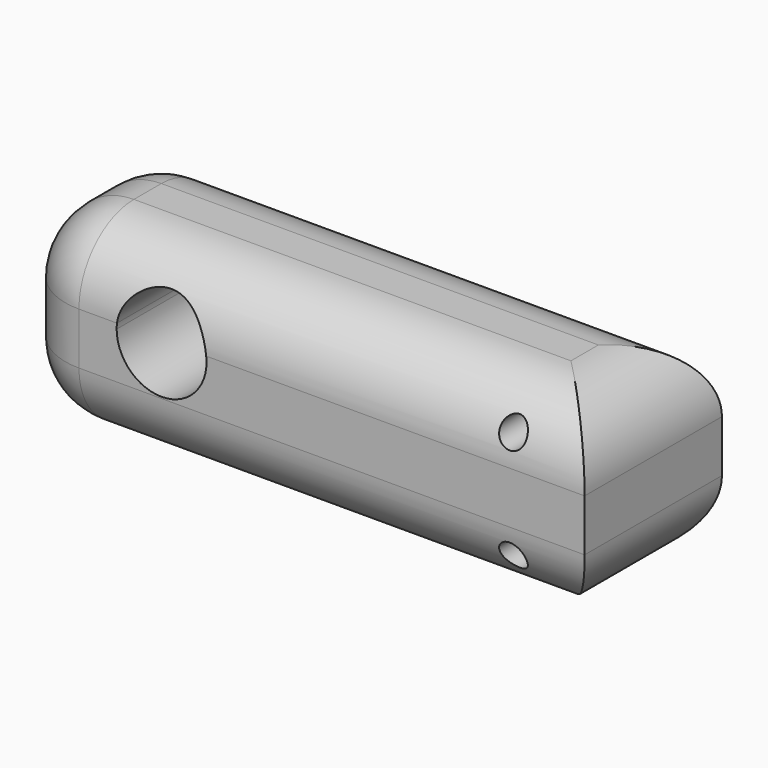
from build123d import *

# Parameters (mm, degrees)
F0_W     = 85
F0_H     = 28
F1_DEPTH = 25.4
F2_R     = 10.16
F4_DEPTH = 25.4
F5_R     = 2
F7_DEPTH = 35


with BuildPart() as f1:
    # F0 (on Front) → F1 (new body)
    with BuildSketch(Plane.XZ):
        with Locations((-23.7341526002, -31.4873820276)):
            Rectangle(F0_W, F0_H)
    extrude(amount=F1_DEPTH)

    # F2
    f2_edges = [f1.edges().sort_by_distance(p)[0] for p in [
        (-66.234153, -12.7, -17.487382),
        (-66.234153, -12.7, -45.487382),
        (-66.234153, 0, -31.487382),
        (-66.234153, -25.4, -31.487382),
        (18.765847, -12.7, -17.487382),
        (-23.734153, 0, -17.487382),
        (-23.734153, -25.4, -17.487382),
        (18.765847, -12.7, -45.487382),
        (-23.734153, 0, -45.487382),
        (-23.734153, -25.4, -45.487382),
    ]]
    fillet(f2_edges, radius=F2_R)

    # F3 (on face) → F4 (cut)
    with BuildSketch(Plane(origin=(0, 0, 0), x_dir=(-1, 0, 0), z_dir=(0, 1, 0))):
        with BuildLine():
            Line((37.2422865066, -27.6473820276), (50.4459766734, -27.6473820276))
            ThreePointArc((50.4459766734, -27.6473820276), (43.84413159, -21.7962196174), (37.2422865066, -27.6473820276))
        make_face()
        with BuildLine():
            ThreePointArc((37.2422865066, -27.6473820276), (43.4439877437, -35.0841699714), (50.49413159, -28.4462196174))
            ThreePointArc((50.49413159, -28.4462196174), (50.482081944, -28.0460757711), (50.4459766734, -27.6473820276))
            Line((50.4459766734, -27.6473820276), (37.2422865066, -27.6473820276))
        make_face()
    extrude(amount=-F4_DEPTH, mode=Mode.SUBTRACT)

    # F5 (on Front) → F7 (cut)
    with BuildSketch(Plane.XZ):
        with Locations((7.5045232661, -23.4873820276)):
            Circle(F5_R)
        with Locations((7.5045232661, -39.4873820276)):
            Circle(F5_R)
    extrude(amount=F7_DEPTH, mode=Mode.SUBTRACT)


solid = f1.part
